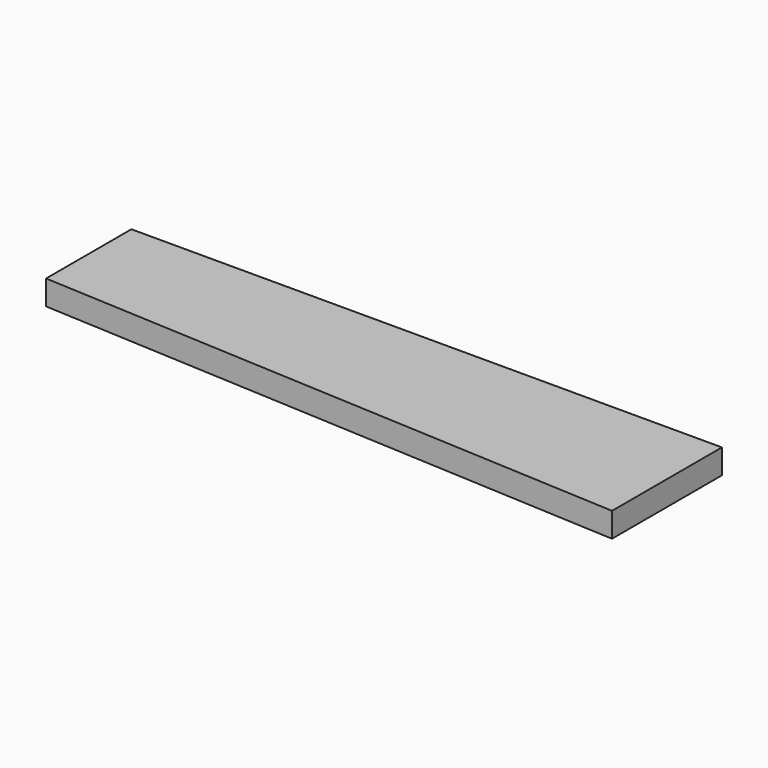
from build123d import *

# Parameters (mm, degrees)
F1_DEPTH = 19.05


with BuildPart() as f1:
    # F0 (on Top) → F1 (new body, symmetric)
    with BuildSketch(Plane.XY):
        Polygon((914.4, 0), (0, 0), (0, -165.1), (914.4, -212.725), align=None)
    extrude(amount=F1_DEPTH, both=True)


solid = f1.part
